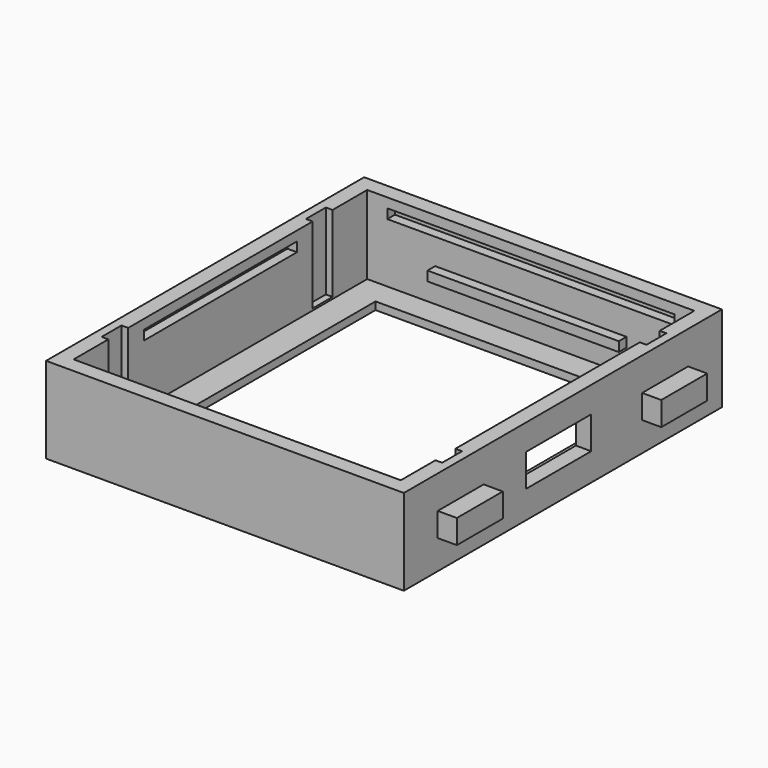
from build123d import *

# Parameters (mm, degrees)
SKETCH030_W     = 37.4
SKETCH030_H     = 41.56
PAD023_DEPTH    = 9
SKETCH031_W     = 28.4
SKETCH031_H     = 27.4
POCKET016_DEPTH = 0.8
SKETCH032_W     = 34.2
SKETCH032_H     = 38.36
POCKET017_DEPTH = 8.2
SKETCH033_W     = 0.9
SKETCH033_H     = 2.6
POCKET018_DEPTH = 8
SKETCH034_W     = 8.5
SKETCH034_H     = 3.4
POCKET019_DEPTH = 5
SKETCH035_W     = 6
SKETCH035_H     = 2.5
PAD024_DEPTH    = 2
SKETCH036_W     = 6
SKETCH036_H     = 2.5
PAD025_DEPTH    = 2
SKETCH037_W     = 20
SKETCH037_H     = 1
PAD026_DEPTH    = 1
SKETCH038_W     = 5
SKETCH038_H     = 1
PAD027_DEPTH    = 1
SKETCH039_W     = 30
SKETCH039_H     = 1
POCKET020_DEPTH = 1
SKETCH040_W     = 30
SKETCH040_H     = 1
POCKET021_DEPTH = 1
SKETCH041_W     = 20
SKETCH041_H     = 1
POCKET022_DEPTH = 1
SKETCH042_W     = 20
SKETCH042_H     = 1
POCKET023_DEPTH = 1


with BuildPart() as part:
    # Sketch030 (on Face1 of ShapeBinder004) → Pad023 (new body)
    with BuildSketch(Plane(origin=(0, 0, -2.3), x_dir=(1, 0, 0), z_dir=(0, 0, -1))):
        with Locations((16.9, -22.98)):
            Rectangle(SKETCH030_W, SKETCH030_H)
    extrude(amount=-PAD023_DEPTH)

    # Sketch031 (on Face5 of Pad023) → Pocket016 (cut)
    with BuildSketch(Plane(origin=(0, 0, -2.3), x_dir=(1, 0, 0), z_dir=(0, 0, -1))):
        with Locations((17, -25.8)):
            Rectangle(SKETCH031_W, SKETCH031_H)
    extrude(amount=-POCKET016_DEPTH, mode=Mode.SUBTRACT)

    # Sketch032 (on Face5 of Pocket016) → Pocket017 (cut)
    with BuildSketch(Plane.XY.offset(6.7)):
        with Locations((16.9, 22.98)):
            Rectangle(SKETCH032_W, SKETCH032_H)
    extrude(amount=-POCKET017_DEPTH, mode=Mode.SUBTRACT)

    # Sketch033 (on Face5 of Pocket017) → Pocket018 (cut)
    with BuildSketch(Plane.XY.offset(6.7)):
        with Locations((34.25, 9.63)):
            Rectangle(SKETCH033_W, SKETCH033_H)
        with Locations((34.25, 36.33)):
            Rectangle(SKETCH033_W, SKETCH033_H)
        with Locations((-0.45, 9.63)):
            Rectangle(SKETCH033_W, SKETCH033_H)
        with Locations((-0.45, 36.33)):
            Rectangle(SKETCH033_W, SKETCH033_H)
    extrude(amount=-POCKET018_DEPTH, mode=Mode.SUBTRACT)

    # Sketch034 (on Face3 of Pocket018) → Pocket019 (cut)
    with BuildSketch(Plane(origin=(35.6, 0, -0.8), x_dir=(0, 1, 0), z_dir=(1, 0, 0))):
        with Locations((22.43, 3.09)):
            Rectangle(SKETCH034_W, SKETCH034_H)
    extrude(amount=-POCKET019_DEPTH, mode=Mode.SUBTRACT)

    # Sketch035 (on Face2 of Pocket019) → Pad024 (join)
    with BuildSketch(Plane(origin=(-1.8, 0, -0.8), x_dir=(0, -1, 0), z_dir=(-1, 0, 0))):
        with Locations((-9.625, 2.8)):
            Rectangle(SKETCH035_W, SKETCH035_H)
        with Locations((-36.335, 2.8)):
            Rectangle(SKETCH035_W, SKETCH035_H)
    extrude(amount=PAD024_DEPTH)

    # Sketch036 (on Face3 of Pad024) → Pad025 (join)
    with BuildSketch(Plane(origin=(35.6, 0, -0.8), x_dir=(0, 1, 0), z_dir=(1, 0, 0))):
        with Locations((9.625, 2.8)):
            Rectangle(SKETCH036_W, SKETCH036_H)
        with Locations((36.335, 2.8)):
            Rectangle(SKETCH036_W, SKETCH036_H)
    extrude(amount=PAD025_DEPTH)

    # Sketch037 (on Face39 of Pad025) → Pad026 (join)
    with BuildSketch(Plane(origin=(0, 42.16, -0.8), x_dir=(1, 0, 0), z_dir=(0, -1, 0))):
        with Locations((16.9, 2.3)):
            Rectangle(SKETCH037_W, SKETCH037_H)
    extrude(amount=PAD026_DEPTH)

    # Sketch038 (on Face31 of Pad026) → Pad027 (join)
    with BuildSketch(Plane(origin=(0, 3.8, -0.8), x_dir=(-1, 0, 0), z_dir=(0, 1, 0))):
        with Locations((-29.3, 2.3)):
            Rectangle(SKETCH038_W, SKETCH038_H)
        with Locations((-4.5, 2.3)):
            Rectangle(SKETCH038_W, SKETCH038_H)
    extrude(amount=PAD027_DEPTH)

    # Sketch039 (on Face39 of Pad027) → Pocket020 (cut)
    with BuildSketch(Plane(origin=(0, 42.16, -0.8), x_dir=(1, 0, 0), z_dir=(0, -1, 0))):
        with Locations((16.9, 6)):
            Rectangle(SKETCH039_W, SKETCH039_H)
    extrude(amount=-POCKET020_DEPTH, mode=Mode.SUBTRACT)

    # Sketch040 (on Face31 of Pocket020) → Pocket021 (cut)
    with BuildSketch(Plane(origin=(0, 3.8, -0.8), x_dir=(-1, 0, 0), z_dir=(0, 1, 0))):
        with Locations((-16.9, 6)):
            Rectangle(SKETCH040_W, SKETCH040_H)
    extrude(amount=-POCKET021_DEPTH, mode=Mode.SUBTRACT)

    # Sketch041 (on Face32 of Pocket021) → Pocket022 (cut)
    with BuildSketch(Plane(origin=(34, 0, -0.8), x_dir=(0, -1, 0), z_dir=(-1, 0, 0))):
        with Locations((-22.98, 6)):
            Rectangle(SKETCH041_W, SKETCH041_H)
    extrude(amount=-POCKET022_DEPTH, mode=Mode.SUBTRACT)

    # Sketch042 (on Face40 of Pocket022) → Pocket023 (cut)
    with BuildSketch(Plane(origin=(-0.2, 0, -0.8), x_dir=(0, 1, 0), z_dir=(1, 0, 0))):
        with Locations((22.98, 6)):
            Rectangle(SKETCH042_W, SKETCH042_H)
    extrude(amount=-POCKET023_DEPTH, mode=Mode.SUBTRACT)


solid = part.part
